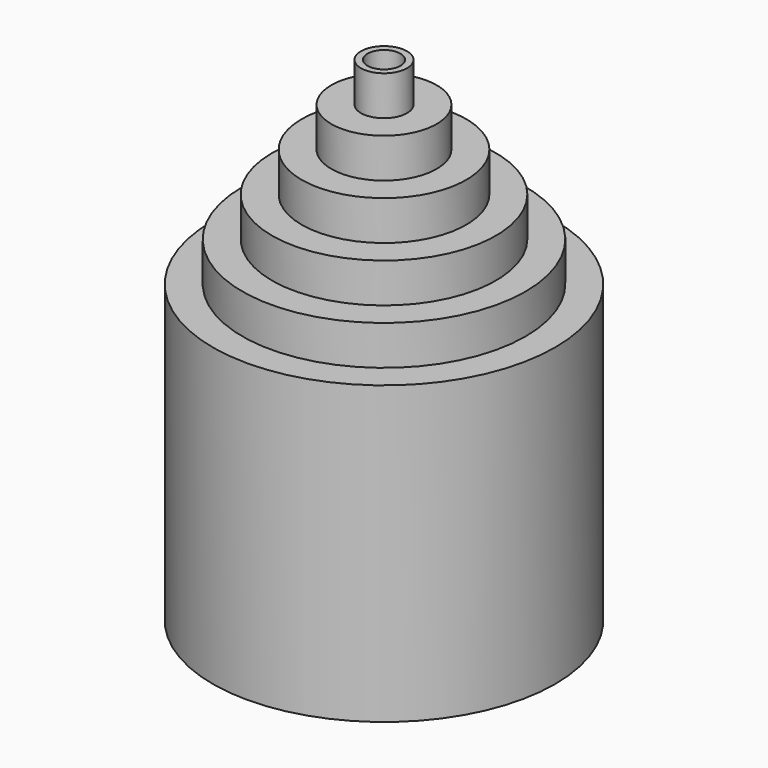
from build123d import *

# Parameters (mm, degrees)
F2_R     = 45
F3_DEPTH = 80
F4_R     = 5
F5_DEPTH = 150.001


with BuildPart() as f1:
    # F0 (on Front) → F1 (revolve)
    with BuildSketch(Plane.XZ):
        Polygon((-52, 0), (0, 0), (0, 150), (-2, 150), (-7, 150), (-7, 138), (-16, 138), (-16, 126), (-25, 126), (-25, 114), (-34, 114), (-34, 102), (-43, 102), (-43, 90), (-52, 90), align=None)
    revolve(axis=Axis((0, 0, 75), (0, 0, 1)))

    # F2 (on Top) → F3 (cut)
    with BuildSketch(Plane.XY):
        Circle(F2_R)
    extrude(amount=F3_DEPTH, mode=Mode.SUBTRACT)

    # F4 (on Top) → F5 (cut, through all)
    with BuildSketch(Plane.XY):
        Circle(F4_R)
    extrude(amount=F5_DEPTH, mode=Mode.SUBTRACT)


solid = f1.part
